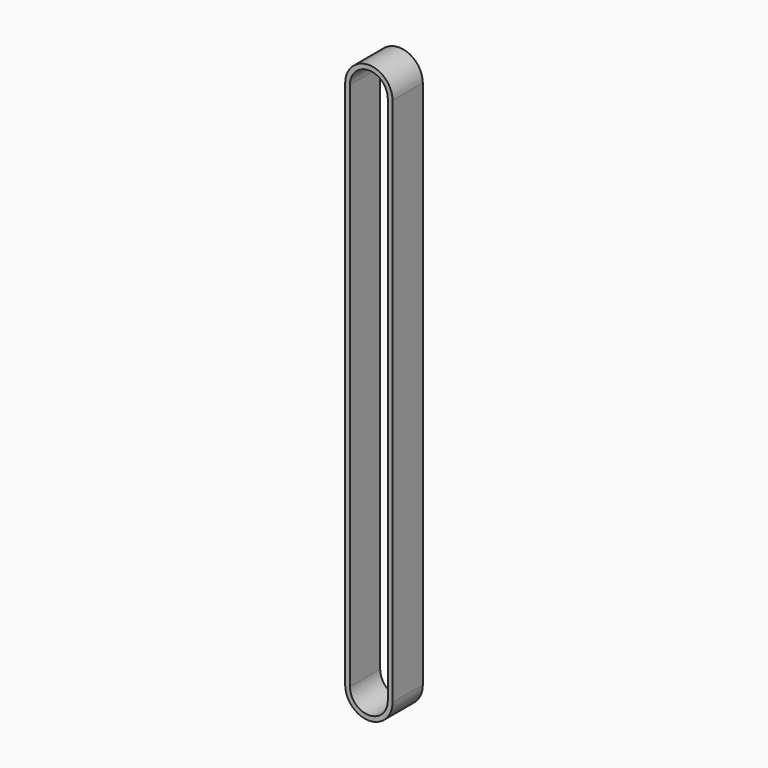
from build123d import *

# Parameters (mm, degrees)
F1_DEPTH = 25.4


with BuildPart() as f1:
    # F0 (on Front) → F1 (new body)
    with BuildSketch(Plane.XZ):
        with BuildLine():
            Line((28.575, -355.6), (28.575, 0))
            ThreePointArc((28.575, 0), (12.7, 15.875), (-3.175, 0))
            Line((-3.175, 0), (-3.175, -355.6))
            ThreePointArc((-3.175, -355.6), (12.7, -371.475), (28.575, -355.6))
        make_face()
        with BuildLine():
            Line((0, -355.6), (0, 0))
            ThreePointArc((0, 0), (12.7, 12.7), (25.4, 0))
            Line((25.4, 0), (25.4, -355.6))
            ThreePointArc((25.4, -355.6), (12.7, -368.3), (0, -355.6))
        make_face(mode=Mode.SUBTRACT)
    extrude(amount=F1_DEPTH)


solid = f1.part
